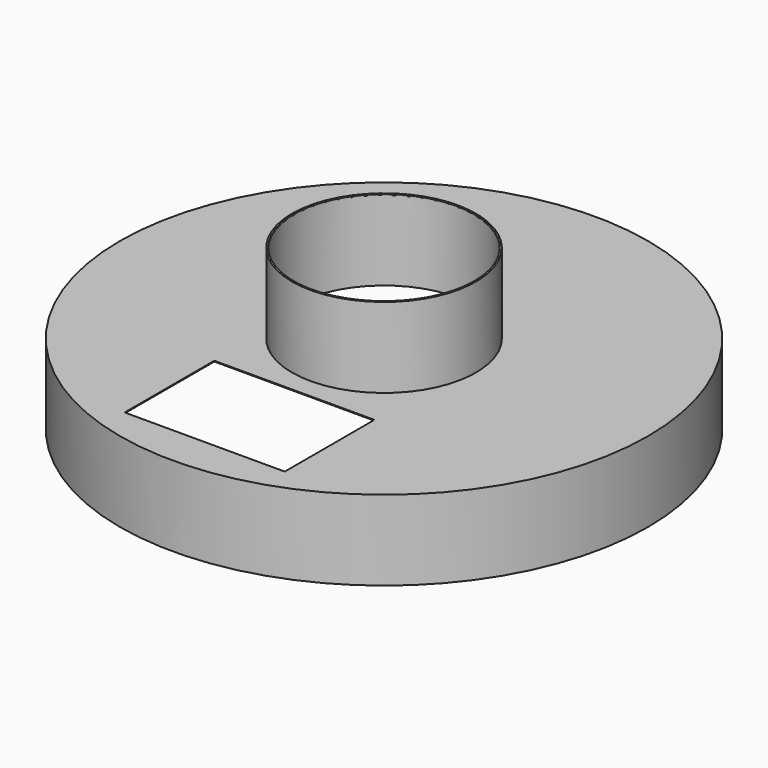
from build123d import *

# Parameters (mm, degrees)
F2_T     = -1
F3_R     = 113
F4_DEPTH = 200.001
F5_W     = 200
F5_H     = 140
F6_DEPTH = 100.001


with BuildPart() as f1:
    # F0 (on Front) → F1 (revolve)
    with BuildSketch(Plane.XZ):
        Polygon((0, 100), (-115, 100), (-115, 0), (-330, 0), (-330, -100), (0, -100), align=None)
    revolve(axis=Axis((0, 0, 94.9130495359), (0, 0, 1)))

    # F2
    f2_openings = [f1.faces().sort_by_distance(p)[0] for p in [
        (0, 0, -100),
    ]]
    offset(amount=F2_T, openings=f2_openings, kind=Kind.INTERSECTION)

    # F3 (on face) → F4 (cut, through all)
    with BuildSketch(Plane.XY.offset(100)):
        Circle(F3_R)
    extrude(amount=-F4_DEPTH, mode=Mode.SUBTRACT)

    # F5 (on face) → F6 (cut, through all)
    with BuildSketch(Plane.XY):
        with Locations((0, -210)):
            Rectangle(F5_W, F5_H)
    extrude(amount=-F6_DEPTH, mode=Mode.SUBTRACT)


solid = f1.part
